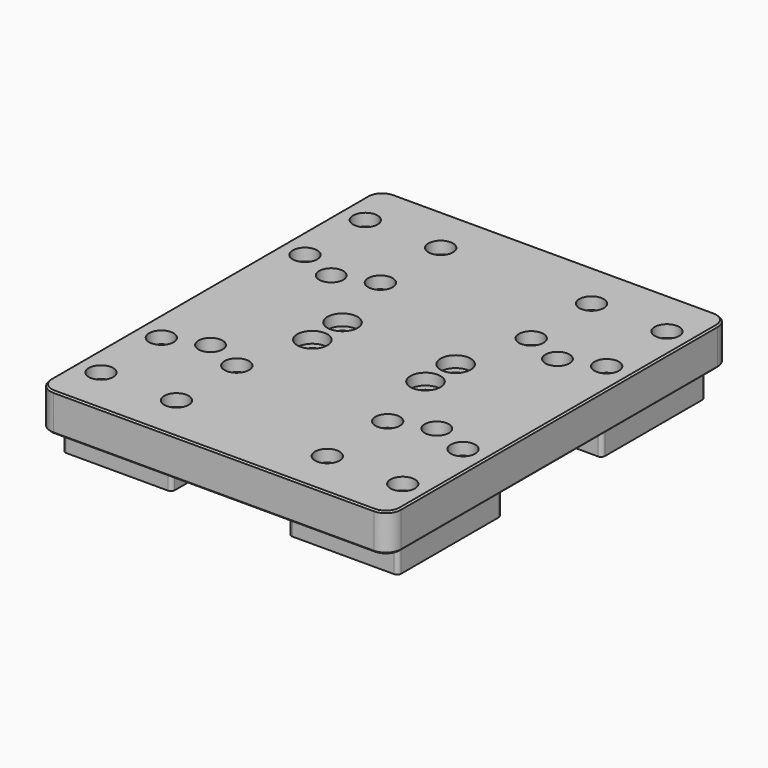
from build123d import *

# Parameters (mm, degrees)
SKETCH_W        = 93
SKETCH_H        = 113
SKETCH_R        = 2.1
SKETCH_R_2      = 1.6
SKETCH_R_3      = 3.2
PAD_DEPTH       = 17
SKETCH001_W     = 93
SKETCH001_H     = 113
POCKET_DEPTH    = 7
SKETCH003_R     = 3.25
POCKET001_DEPTH = 3.2
SKETCH004_R     = 4
POCKET002_DEPTH = 3
POCKET003_DEPTH = 5.7
FILLET_R        = 4
CHAMFER_SIZE    = 0.4


with BuildPart() as part:
    # Sketch → Pad (new body)
    with BuildSketch(Plane.XY):
        with Locations((46.5, 56.5)):
            Rectangle(SKETCH_W, SKETCH_H)
        with Locations((31.5, 61.5)):
            Circle(SKETCH_R, mode=Mode.SUBTRACT)
        with Locations((61.5, 61.5)):
            Circle(SKETCH_R, mode=Mode.SUBTRACT)
        with Locations((61.5, 51.5)):
            Circle(SKETCH_R, mode=Mode.SUBTRACT)
        with Locations((31.5, 51.5)):
            Circle(SKETCH_R, mode=Mode.SUBTRACT)
        with Locations((6.5, 100.3)):
            Circle(SKETCH_R_2, mode=Mode.SUBTRACT)
        with Locations((26.5, 100.3)):
            Circle(SKETCH_R_2, mode=Mode.SUBTRACT)
        with Locations((26.5, 80.3)):
            Circle(SKETCH_R_2, mode=Mode.SUBTRACT)
        with Locations((6.5, 80.3)):
            Circle(SKETCH_R_2, mode=Mode.SUBTRACT)
        with Locations((26.5, 12.7)):
            Circle(SKETCH_R_2, mode=Mode.SUBTRACT)
        with Locations((6.5, 12.7)):
            Circle(SKETCH_R_2, mode=Mode.SUBTRACT)
        with Locations((6.5, 32.7)):
            Circle(SKETCH_R_2, mode=Mode.SUBTRACT)
        with Locations((26.5, 32.7)):
            Circle(SKETCH_R_2, mode=Mode.SUBTRACT)
        with Locations((66.5, 100.3)):
            Circle(SKETCH_R_2, mode=Mode.SUBTRACT)
        with Locations((86.5, 100.3)):
            Circle(SKETCH_R_2, mode=Mode.SUBTRACT)
        with Locations((86.5, 80.3)):
            Circle(SKETCH_R_2, mode=Mode.SUBTRACT)
        with Locations((66.5, 80.3)):
            Circle(SKETCH_R_2, mode=Mode.SUBTRACT)
        with Locations((66.5, 32.7)):
            Circle(SKETCH_R_2, mode=Mode.SUBTRACT)
        with Locations((86.5, 32.7)):
            Circle(SKETCH_R_2, mode=Mode.SUBTRACT)
        with Locations((86.5, 12.7)):
            Circle(SKETCH_R_2, mode=Mode.SUBTRACT)
        with Locations((66.5, 12.7)):
            Circle(SKETCH_R_2, mode=Mode.SUBTRACT)
        with Locations((16.5, 36.5)):
            Circle(SKETCH_R_3, mode=Mode.SUBTRACT)
        with Locations((76.5, 36.5)):
            Circle(SKETCH_R_3, mode=Mode.SUBTRACT)
        with Locations((76.5, 76.5)):
            Circle(SKETCH_R_3, mode=Mode.SUBTRACT)
        with Locations((16.5, 76.5)):
            Circle(SKETCH_R_3, mode=Mode.SUBTRACT)
    extrude(amount=PAD_DEPTH)

    # Sketch001 (on Face29 of Pad) → Pocket (cut)
    with BuildSketch(Plane(origin=(0, 84, 0), x_dir=(1, 0, 0), z_dir=(0, 0, -1))):
        with Locations((46.5, 27.5)):
            Rectangle(SKETCH001_W, SKETCH001_H)
        with BuildLine():
            Line((2, 45.1), (2, 77.50001))
            ThreePointArc((3, 78.5), (2.292897, 78.20711), (2, 77.50001))
            Line((3, 78.5), (30, 78.5))
            ThreePointArc((31, 77.50001), (30.707103, 78.20711), (30, 78.5))
            Line((31, 77.50001), (31, 45.1))
            ThreePointArc((30, 44.1), (30.707107, 44.392893), (31, 45.1))
            Line((30, 44.1), (24, 44.1))
            ThreePointArc((23, 45.1), (23.292893, 44.392893), (24, 44.1))
            Line((23, 47.5), (23, 45.1))
            ThreePointArc((23, 47.5), (16.5, 54), (10, 47.5))
            Line((10, 47.5), (10, 45.1))
            ThreePointArc((9, 44.1), (9.707107, 44.392893), (10, 45.1))
            Line((3, 44.1), (9, 44.1))
            ThreePointArc((2, 45.1), (2.292893, 44.392893), (3, 44.1))
        make_face(mode=Mode.SUBTRACT)
        with BuildLine():
            ThreePointArc((89.999999, 44.1), (90.707107, 44.392893), (91.000001, 45.1))
            Line((91.000001, 77.5), (91.000001, 45.1))
            ThreePointArc((91.000001, 77.5), (90.707107, 78.207107), (90.000001, 78.5))
            Line((63.000001, 78.5), (90.000001, 78.5))
            ThreePointArc((63.000001, 78.5), (62.292894, 78.207107), (62.000001, 77.5))
            Line((62.000001, 45.1), (62.000001, 77.5))
            ThreePointArc((62.000001, 45.1), (62.292894, 44.392893), (63.000001, 44.1))
            Line((63.000001, 44.1), (69, 44.1))
            ThreePointArc((69, 44.1), (69.707107, 44.392893), (70, 45.1))
            Line((70, 47.5), (70, 45.1))
            ThreePointArc((83, 47.5), (76.5, 54), (70, 47.5))
            Line((83, 47.5), (83, 45.1))
            ThreePointArc((83, 45.1), (83.292893, 44.392893), (84, 44.1))
            Line((89.999999, 44.1), (84, 44.1))
        make_face(mode=Mode.SUBTRACT)
        with BuildLine():
            Line((31, 9.9), (31, -22.5))
            ThreePointArc((30, -23.5), (30.707107, -23.207107), (31, -22.5))
            Line((30, -23.5), (3, -23.5))
            ThreePointArc((2, -22.5), (2.292893, -23.207107), (3, -23.5))
            Line((2, -22.5), (2, 9.9))
            ThreePointArc((3, 10.9), (2.292893, 10.607107), (2, 9.9))
            Line((3, 10.9), (9, 10.9))
            ThreePointArc((10, 9.9), (9.707107, 10.607107), (9, 10.9))
            Line((10, 7.5), (10, 9.9))
            ThreePointArc((10, 7.5), (16.5, 1), (23, 7.5))
            Line((23, 7.5), (23, 9.9))
            ThreePointArc((24, 10.9), (23.292893, 10.607107), (23, 9.9))
            Line((30, 10.9), (24, 10.9))
            ThreePointArc((31, 9.9), (30.707107, 10.607107), (30, 10.9))
        make_face(mode=Mode.SUBTRACT)
        with BuildLine():
            Line((91, 9.9), (91, -22.5))
            ThreePointArc((90, -23.5), (90.707107, -23.207107), (91, -22.5))
            Line((90, -23.5), (63, -23.5))
            ThreePointArc((62, -22.5), (62.292893, -23.207107), (63, -23.5))
            Line((62, -22.5), (62, 9.9))
            ThreePointArc((63, 10.9), (62.292893, 10.607107), (62, 9.9))
            Line((63, 10.9), (69, 10.9))
            ThreePointArc((70, 9.9), (69.707107, 10.607107), (69, 10.9))
            Line((70, 7.5), (70, 9.9))
            ThreePointArc((70, 7.5), (76.5, 1), (83, 7.5))
            Line((83, 7.5), (83, 9.9))
            ThreePointArc((84, 10.9), (83.292893, 10.607107), (83, 9.9))
            Line((90, 10.9), (84, 10.9))
            ThreePointArc((91, 9.9), (90.707107, 10.607107), (90, 10.9))
        make_face(mode=Mode.SUBTRACT)
    extrude(amount=-POCKET_DEPTH, mode=Mode.SUBTRACT)

    # Sketch003 (on Face4 of Pocket) → Pocket001 (cut)
    with BuildSketch(Plane.XY.offset(17)):
        with Locations((6.5, 100.3)):
            Circle(SKETCH003_R)
        with Locations((26.5, 100.3)):
            Circle(SKETCH003_R)
        with Locations((26.5, 80.3)):
            Circle(SKETCH003_R)
        with Locations((6.5, 80.3)):
            Circle(SKETCH003_R)
        with Locations((66.5, 100.3)):
            Circle(SKETCH003_R)
        with Locations((66.5, 80.3)):
            Circle(SKETCH003_R)
        with Locations((86.5, 80.3)):
            Circle(SKETCH003_R)
        with Locations((86.5, 100.3)):
            Circle(SKETCH003_R)
        with Locations((86.5, 12.7)):
            Circle(SKETCH003_R)
        with Locations((66.5, 12.7)):
            Circle(SKETCH003_R)
        with Locations((66.5, 32.7)):
            Circle(SKETCH003_R)
        with Locations((86.5, 32.7)):
            Circle(SKETCH003_R)
        with Locations((6.5, 32.7)):
            Circle(SKETCH003_R)
        with Locations((26.5, 32.7)):
            Circle(SKETCH003_R)
        with Locations((26.5, 12.7)):
            Circle(SKETCH003_R)
        with Locations((6.5, 12.7)):
            Circle(SKETCH003_R)
    extrude(amount=-POCKET001_DEPTH, mode=Mode.SUBTRACT)

    # Sketch004 (on Face4 of Pocket001) → Pocket002 (cut)
    with BuildSketch(Plane.XY.offset(17)):
        with Locations((31.5, 61.5)):
            Circle(SKETCH004_R)
        with Locations((31.5, 51.5)):
            Circle(SKETCH004_R)
        with Locations((61.5, 51.5)):
            Circle(SKETCH004_R)
        with Locations((61.5, 61.5)):
            Circle(SKETCH004_R)
    extrude(amount=-POCKET002_DEPTH, mode=Mode.SUBTRACT)

    # Sketch005 (on Face2 of Pocket002) → Pocket003 (cut)
    with BuildSketch(Plane(origin=(0, 113, 7), x_dir=(1, 0, 0), z_dir=(0, 0, -1))):
        Polygon((10.668762, 36.5), (13.584381, 31.45), (19.415619, 31.45), (22.331238, 36.5), (19.415619, 41.55), (13.584381, 41.55), align=None)
        Polygon((73.584381, 31.45), (79.415619, 31.45), (82.331238, 36.5), (79.415619, 41.55), (73.584381, 41.55), (70.668762, 36.5), align=None)
        Polygon((73.584381, 71.45), (79.415619, 71.45), (82.331238, 76.5), (79.415619, 81.55), (73.584381, 81.55), (70.668762, 76.5), align=None)
        Polygon((13.584381, 71.45), (19.415619, 71.45), (22.331238, 76.5), (19.415619, 81.55), (13.584381, 81.55), (10.668762, 76.5), align=None)
    extrude(amount=-POCKET003_DEPTH, mode=Mode.SUBTRACT)

    # Fillet
    fillet_edges = [part.edges().sort_by_distance(p)[0] for p in [
        (93, 113, 12),
        (93, 0, 12),
        (0, 113, 12),
        (0, 0, 12),
    ]]
    fillet(fillet_edges, radius=FILLET_R)

    # Chamfer
    chamfer_edges = [part.edges().sort_by_distance(p)[0] for p in [
        (0, 56.5, 7),
        (0, 56.5, 17),
        (1.171573, 111.828427, 7),
        (1.171573, 111.828427, 17),
        (1.171573, 1.171573, 7),
        (1.171573, 1.171573, 17),
        (46.5, 0, 17),
        (46.5, 0, 7),
        (91.828427, 1.171573, 17),
        (91.828427, 1.171573, 7),
        (93, 56.5, 17),
        (93, 56.5, 7),
        (91.828427, 111.828427, 17),
        (91.828427, 111.828427, 7),
        (46.5, 113, 7),
        (46.5, 113, 17),
    ]]
    chamfer(chamfer_edges, length=CHAMFER_SIZE)


solid = part.part
